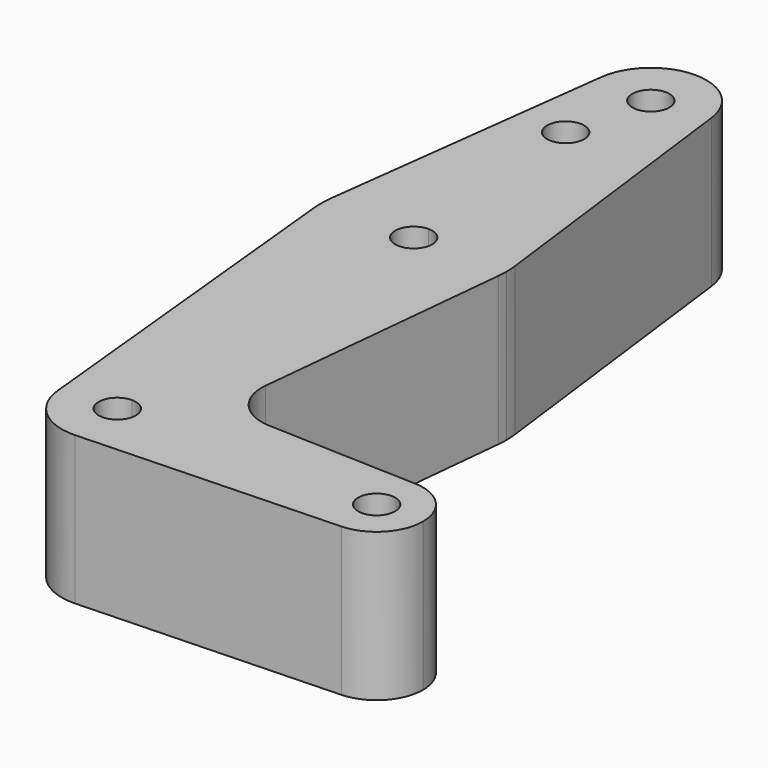
from build123d import *

# Parameters (mm, degrees)
F0_R     = 3.175
F1_DEPTH = 25.4


with BuildPart() as f1:
    # F0 (on Top) → F1 (new body)
    with BuildSketch(Plane.XY):
        with BuildLine():
            ThreePointArc((9.4502929642, 115.490625), (0, 123.825), (-9.4502929642, 115.490625))
            ThreePointArc((-9.4502929642, 115.490625), (-7.14375, 107.9998046905), (0, 104.775))
            ThreePointArc((0, 104.775), (6.7351920908, 107.5648079092), (9.525, 114.3))
            ThreePointArc((9.525, 114.3), (9.5063048942, 114.896483242), (9.4502929642, 115.490625))
        make_face()
        with BuildLine():
            ThreePointArc((3.175, 114.3), (2.2450640303, 112.0549359697), (0, 111.125))
            ThreePointArc((0, 111.125), (-2.2450640303, 116.5450640303), (3.175, 114.3))
        make_face(mode=Mode.SUBTRACT)
        with BuildLine():
            Line((0, 100.0252), (0, 79.375))
            ThreePointArc((0, 79.375), (10.5003255158, 75.40625), (15.7504882737, 65.484375))
            Line((15.7504882737, 65.484375), (9.4502929642, 115.490625))
            ThreePointArc((9.4502929642, 115.490625), (9.5063048942, 114.896483242), (9.525, 114.3))
            ThreePointArc((9.525, 114.3), (6.7351920908, 107.5648079092), (0, 104.775))
            Line((0, 104.775), (0, 100.0252))
        make_face()
        with BuildLine():
            Line((-9.4502929642, 115.490625), (-15.7504882737, 65.484375))
            ThreePointArc((-15.7504882737, 65.484375), (-10.5003255158, 75.40625), (0, 79.375))
            Line((0, 79.375), (0, 100.0252))
            Line((0, 100.0252), (0, 104.775))
            ThreePointArc((0, 104.775), (-7.14375, 107.9998046905), (-9.4502929642, 115.490625))
        make_face()
        with Locations((-3.175, 100.0252)):
            Circle(F0_R, mode=Mode.SUBTRACT)
        with BuildLine():
            ThreePointArc((-9.4772553384, -0.9525), (-7.063929059, 6.3895642457), (0, 9.525))
            Line((0, 9.525), (0, 47.625))
            ThreePointArc((0, 47.625), (-10.6492737428, 51.7267849017), (-15.7954255641, 61.9125))
            Line((-15.7954255641, 61.9125), (-9.4772553384, -0.9525))
        make_face()
        with BuildLine():
            Line((0, 47.625), (0, 9.525))
            ThreePointArc((0, 9.525), (6.7351920908, 6.7351920908), (9.525, 0))
            Line((9.525, 0), (36.5125, 0))
            ThreePointArc((36.5125, 0), (38.9384772185, 5.7120069047), (44.7334821429, 7.9324362036))
            Line((44.7334821429, 7.9324362036), (18.9676000005, 8.8532337108))
            ThreePointArc((18.9676000005, 8.8532337108), (13.2611998974, 11.5713591498), (11.3411865923, 17.5933818124))
            Line((11.3411865923, 17.5933818124), (15.7954255641, 61.9125))
            ThreePointArc((15.7954255641, 61.9125), (10.6492737428, 51.7267849017), (0, 47.625))
        make_face()
        with BuildLine():
            Line((0, 60.325), (0, 47.625))
            ThreePointArc((0, 47.625), (10.6492737428, 51.7267849017), (15.7954255641, 61.9125))
            ThreePointArc((15.7954255641, 61.9125), (15.8550939106, 62.7052534459), (15.875, 63.5))
            ThreePointArc((15.875, 63.5), (15.8438414904, 64.4941387366), (15.7504882737, 65.484375))
            ThreePointArc((15.7504882737, 65.484375), (10.5003255158, 75.40625), (0, 79.375))
            Line((0, 79.375), (0, 66.675))
            ThreePointArc((0, 66.675), (2.2450640303, 65.7450640303), (3.175, 63.5))
            ThreePointArc((3.175, 63.5), (2.2450640303, 61.2549359697), (0, 60.325))
        make_face()
        with BuildLine():
            ThreePointArc((-15.7954255641, 61.9125), (-10.6492737428, 51.7267849017), (0, 47.625))
            Line((0, 47.625), (0, 60.325))
            ThreePointArc((0, 60.325), (-3.175, 63.5), (0, 66.675))
            Line((0, 66.675), (0, 79.375))
            ThreePointArc((0, 79.375), (-10.5003255158, 75.40625), (-15.7504882737, 65.484375))
            ThreePointArc((-15.7504882737, 65.484375), (-15.8737438155, 63.6997054867), (-15.7954255641, 61.9125))
        make_face()
        with BuildLine():
            Line((0, 9.525), (0, 3.175))
            ThreePointArc((0, 3.175), (2.2450640303, 2.2450640303), (3.175, 0))
            Line((3.175, 0), (9.525, 0))
            ThreePointArc((9.525, 0), (6.7351920908, 6.7351920908), (0, 9.525))
        make_face()
        with BuildLine():
            ThreePointArc((3.175, 0), (-2.2450640303, -2.2450640303), (0, 3.175))
            Line((0, 3.175), (0, 9.525))
            ThreePointArc((0, 9.525), (-7.063929059, 6.3895642457), (-9.4772553384, -0.9525))
            ThreePointArc((-9.4772553384, -0.9525), (-6.2623833816, -7.1769199091), (0.3401785714, -9.5189234444))
            ThreePointArc((0.3401785714, -9.5189234444), (6.8544082857, -6.6138273378), (9.525, 0))
            Line((9.525, 0), (3.175, 0))
        make_face()
        with BuildLine():
            Line((36.5125, 0), (9.525, 0))
            ThreePointArc((9.525, 0), (6.8544082857, -6.6138273378), (0.3401785714, -9.5189234444))
            Line((0.3401785714, -9.5189234444), (44.7334821429, -7.9324362036))
            ThreePointArc((44.7334821429, -7.9324362036), (38.9384772185, -5.7120069047), (36.5125, 0))
        make_face()
        with BuildLine():
            ThreePointArc((44.7334821429, 7.9324362036), (38.9384772185, 5.7120069047), (36.5125, 0))
            ThreePointArc((36.5125, 0), (38.9384772185, -5.7120069047), (44.7334821429, -7.9324362036))
            ThreePointArc((44.7334821429, -7.9324362036), (50.1620069047, -5.5115227815), (52.3875, 0))
            ThreePointArc((52.3875, 0), (50.1620069047, 5.5115227815), (44.7334821429, 7.9324362036))
        make_face()
        with BuildLine():
            ThreePointArc((47.625, 0), (44.45, -3.175), (41.275, 0))
            ThreePointArc((41.275, 0), (44.45, 3.175), (47.625, 0))
        make_face(mode=Mode.SUBTRACT)
    extrude(amount=F1_DEPTH)


solid = f1.part
